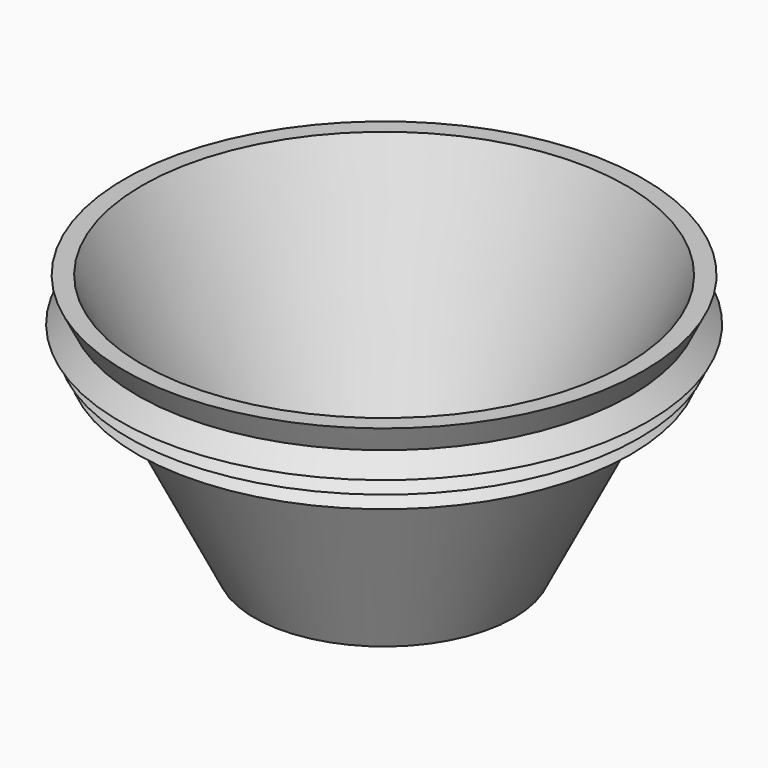
from build123d import *


with BuildPart() as f1:
    # F0 (on Front) → F1 (revolve)
    with BuildSketch(Plane.XZ):
        Polygon((0, 3.0734), (0, 0), (25.4, 0), (43.18, 35.56), (44.873333, 38.946667), (46.566667, 42.333333), (48.26, 45.72), (50.8, 50.8), (47.363834, 50.8), (23.500534, 3.0734), align=None)
        Polygon((48.26, 45.72), (46.566667, 42.333333), (51.646667, 42.333333), align=None)
        Polygon((46.566667, 42.333333), (44.873333, 38.946667), (49.953333, 38.946667), align=None)
        Polygon((44.873333, 38.946667), (43.18, 35.56), (48.26, 35.56), align=None)
    revolve(axis=Axis((0, 0, 25.4), (0, 0, 1)))


solid = f1.part
